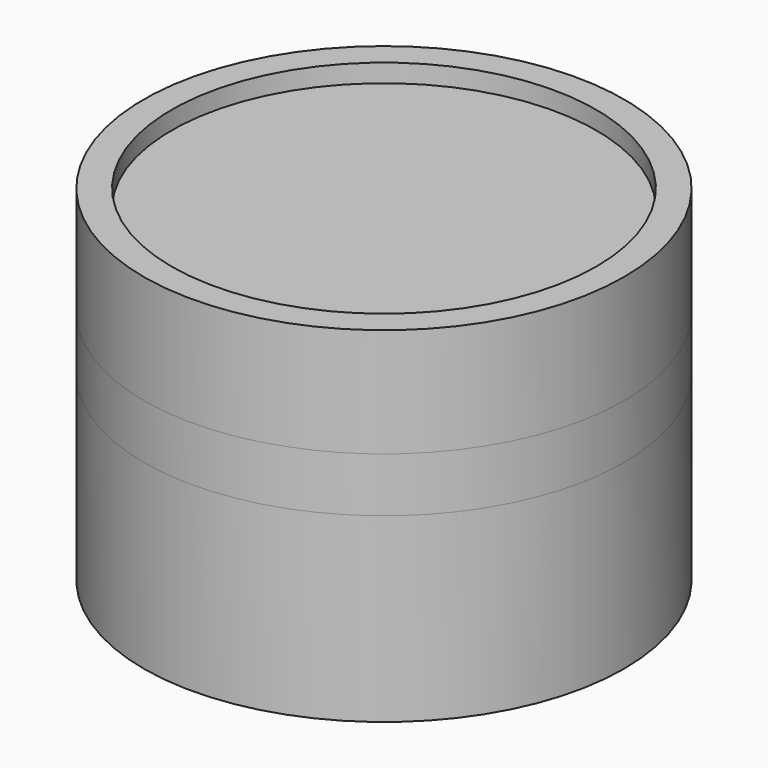
from build123d import *

# Parameters (mm, degrees)
F0_R     = 1.3233333333
F0_R_2   = 1.1696666667
F1_DEPTH = 1.5
F2_DEPTH = 1.6
F3_DEPTH = 1.8
F4_DEPTH = 1.9
F5_DEPTH = 1.3
F6_DEPTH = 1
F7_SCALE = 3


with BuildPart() as f1:
    # F0 (on Top) → F1 (new body)
    with BuildSketch(Plane.XY):
        Circle(F0_R)
        Circle(F0_R_2, mode=Mode.SUBTRACT)
    extrude(amount=F1_DEPTH)


with BuildPart() as f2:
    # F0 (on Top) → F2 (new body)
    with BuildSketch(Plane.XY):
        Circle(F0_R)
        Circle(F0_R_2, mode=Mode.SUBTRACT)
    extrude(amount=F2_DEPTH)


with BuildPart() as f3:
    # F0 (on Top) → F3 (new body)
    with BuildSketch(Plane.XY):
        Circle(F0_R)
        Circle(F0_R_2, mode=Mode.SUBTRACT)
        Circle(F0_R_2)
    extrude(amount=F3_DEPTH)


with BuildPart() as f4:
    # F0 (on Top) → F4 (new body)
    with BuildSketch(Plane.XY):
        Circle(F0_R)
        Circle(F0_R_2, mode=Mode.SUBTRACT)
    extrude(amount=F4_DEPTH)


with BuildPart() as f5:
    # F0 (on Top) → F5 (new body)
    with BuildSketch(Plane.XY):
        Circle(F0_R)
        Circle(F0_R_2, mode=Mode.SUBTRACT)
    extrude(amount=F5_DEPTH)


with BuildPart() as f6:
    # F0 (on Top) → F6 (new body)
    with BuildSketch(Plane.XY):
        Circle(F0_R)
        Circle(F0_R_2, mode=Mode.SUBTRACT)
        Circle(F0_R_2)
    extrude(amount=F6_DEPTH)


with BuildPart() as f1_1:
    # F7: moved
    add(f1.part.scale(F7_SCALE))


with BuildPart() as f2_1:
    # F7: moved
    add(f2.part.scale(F7_SCALE))


with BuildPart() as f3_1:
    # F7: moved
    add(f3.part.scale(F7_SCALE))


with BuildPart() as f4_1:
    # F7: moved
    add(f4.part.scale(F7_SCALE))


with BuildPart() as f5_1:
    # F7: moved
    add(f5.part.scale(F7_SCALE))


with BuildPart() as f6_1:
    # F7: moved
    add(f6.part.scale(F7_SCALE))


solid = Compound([f1_1.part, f2_1.part, f3_1.part, f4_1.part, f5_1.part, f6_1.part])
